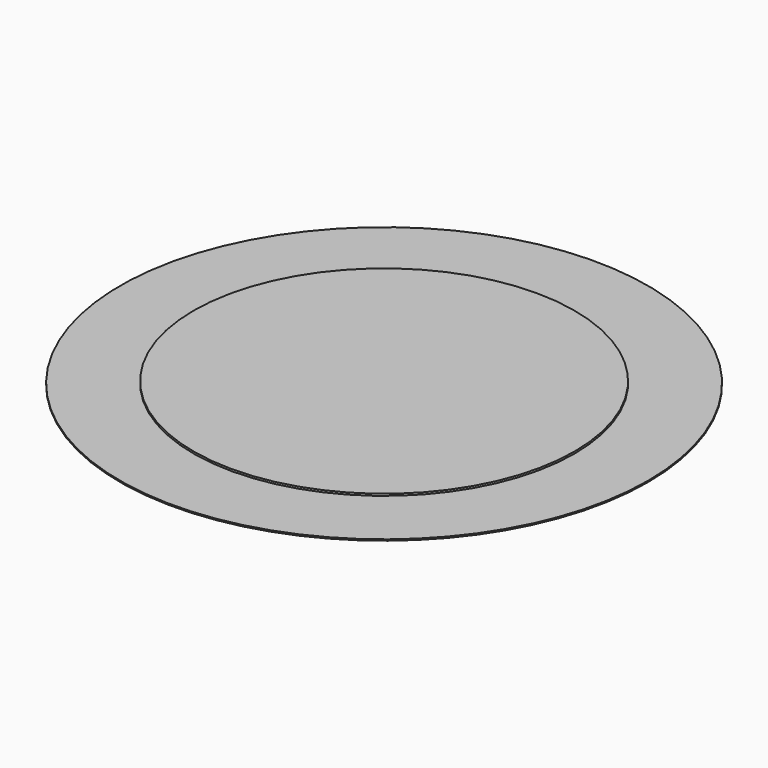
from build123d import *

# Parameters (mm, degrees)
F0_R     = 14.8
F1_DEPTH = 0.2
F0_R_2   = 20.5
F2_DEPTH = 0.05


with BuildPart() as f1:
    # F0 (on Top) → F1 (new body, symmetric)
    with BuildSketch(Plane.XY):
        Circle(F0_R)
    extrude(amount=F1_DEPTH, both=True)

    # F0 (on Top) → F2 (join, symmetric)
    with BuildSketch(Plane.XY):
        Circle(F0_R_2)
        Circle(F0_R, mode=Mode.SUBTRACT)
    extrude(amount=F2_DEPTH, both=True)


solid = f1.part
